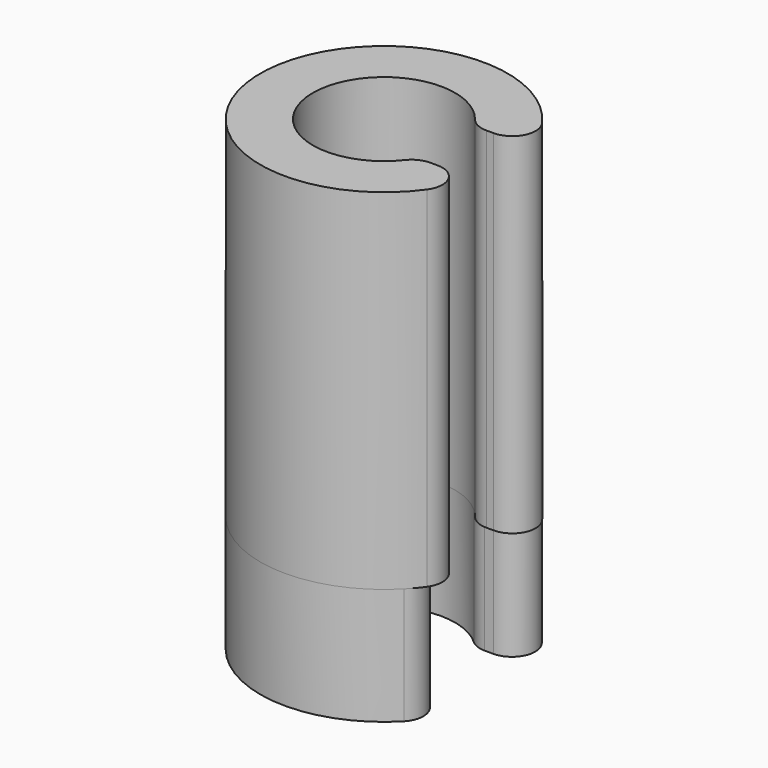
from build123d import *

# Parameters (mm, degrees)
F1_DEPTH = 5
F2_R     = 1
F4_START = 5
F4_DEPTH = 15
F5_R     = 1


with BuildPart() as f1:
    # F0 (on Top) → F1 (new body)
    with BuildSketch(Plane.XY):
        with BuildLine():
            Line((2.3027157879, 2), (4.9135552302, 2))
            ThreePointArc((4.9135552302, 2), (-5.305, 0), (4.9135552302, -2))
            Line((4.9135552302, -2), (2.3027157879, -2))
            ThreePointArc((2.3027157879, -2), (-3.05, 0), (2.3027157879, 2))
        make_face()
    extrude(amount=F1_DEPTH)

    # F2
    f2_edges = [f1.edges().sort_by_distance(p)[0] for p in [
        (4.913555, 2, 2.5),
        (2.302716, 2, 2.5),
        (2.302716, -2, 2.5),
        (4.913555, -2, 2.5),
    ]]
    fillet(f2_edges, radius=F2_R)

    # F3 (on Top) → F4 (join)
    with BuildSketch(Plane.XY.offset(F4_START)):
        with BuildLine():
            Line((2.655654345, 1.5), (5.0885189397, 1.5))
            ThreePointArc((5.0885189397, 1.5), (-5.305, 0), (5.0885189397, -1.5))
            Line((5.0885189397, -1.5), (2.655654345, -1.5))
            ThreePointArc((2.655654345, -1.5), (-3.05, 0), (2.655654345, 1.5))
        make_face()
    extrude(amount=F4_DEPTH)

    # F5
    f5_edges = [f1.edges().sort_by_distance(p)[0] for p in [
        (5.088519, -1.5, 12.5),
        (5.088519, 1.5, 12.5),
        (2.655654, -1.5, 12.5),
        (2.655654, 1.5, 12.5),
    ]]
    fillet(f5_edges, radius=F5_R)


solid = f1.part
